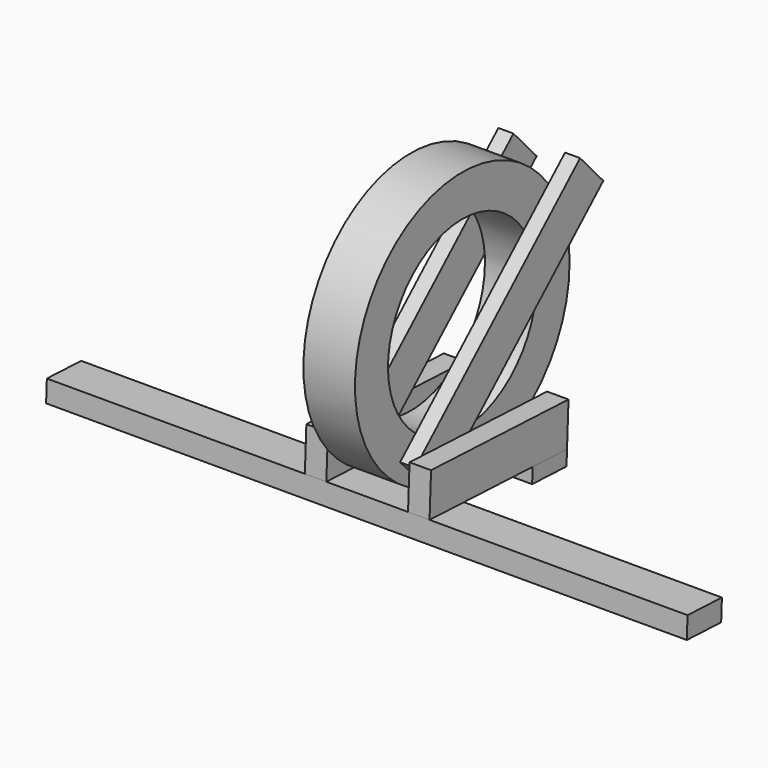
from build123d import *

# Parameters (mm, degrees)
F0_R      = 311.9
F0_R_2    = 215.9
F1_DEPTH  = 60
F3_DEPTH  = 745
F5_DEPTH  = 35
F8_DEPTH  = 50
F11_DEPTH = 290


with BuildPart() as f1:
    # F0 (on Right) → F1 (new body, symmetric)
    with BuildSketch(Plane.YZ):
        Circle(F0_R)
        Circle(F0_R_2, mode=Mode.SUBTRACT)
    extrude(amount=F1_DEPTH, both=True)



with BuildPart() as f3:
    # F2 (on Right) → F3 (new body, symmetric)
    with BuildSketch(Plane.YZ):
        Polygon((-103.6724866617, -344.8819967158), (-101.4780894085, -294.9301737191), (-201.381735402, -290.5413792128), (-203.5761326551, -340.4932022095), align=None)
    extrude(amount=F3_DEPTH, both=True)


with BuildPart() as f5:
    # F4 (on face) → F5 (new body)
    with BuildSketch(Plane.YZ.offset(60)):
        Polygon((298.7269320486, 230.4909768651), (-180.6213653268, -208.5138178733), (-113.0821661363, -282.2597097772), (366.2661312391, 156.7450849612), align=None)
    extrude(amount=F5_DEPTH)


with BuildPart() as f1_1:
    add(f1.part)

    add(f5.part)  # F6 merges F5
    # F6: F5 across plane
    add(f5.part.mirror(Plane.YZ))


with BuildPart() as f8:
    # F7 (on face) → F8 (new body)
    with BuildSketch(Plane.YZ.offset(95)):
        Polygon((-201.381735402, -290.5413792128), (-101.4780894085, -294.9301737191), (198.2328485718, -308.0965572382), (202.6216430781, -208.1929112448), (-196.9929408956, -190.6377332193), align=None)
    extrude(amount=F8_DEPTH)


with BuildPart() as f9_1:
    # F9: instance of F8
    add(f8.part.mirror(Plane.YZ))


with BuildPart() as f11:
    # F10 (on face) → F11 (new body, through all)
    with BuildSketch(Plane.YZ.offset(145)):
        Polygon((198.2328485718, -308.0965572382), (98.3292025783, -303.7077627319), (96.7931245011, -338.6740388296), (196.6967704945, -343.0628333359), align=None)
    extrude(amount=-F11_DEPTH)


solid = Compound([f3.part, f1_1.part, f8.part, f9_1.part, f11.part])
